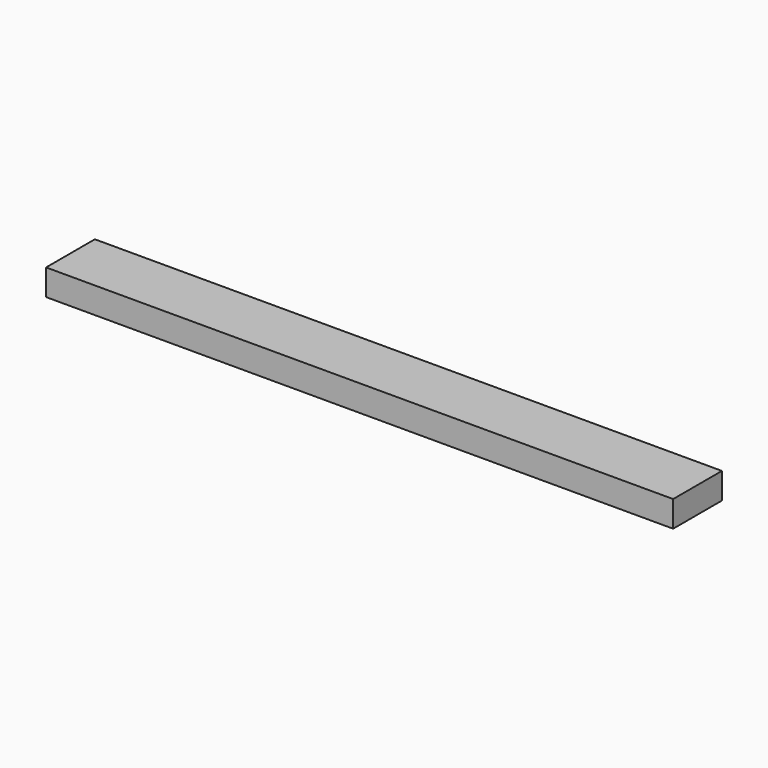
from build123d import *

# Parameters (mm, degrees)
F0_W     = 914.4
F0_H     = 88.9
F1_DEPTH = 38.1
F2_W     = 152.4
F2_H     = 25.4
F3_DEPTH = 6.35
F4_R     = 6.35
F5_DEPTH = 25.4


with BuildPart() as f1:
    # F0 (on Top) → F1 (new body)
    with BuildSketch(Plane.XY):
        with Locations((-483.326185, -13.443414)):
            Rectangle(F0_W, F0_H)
    extrude(amount=F1_DEPTH)

    # F2 (on face) → F3 (join)
    with BuildSketch(Plane(origin=(0, 31.006586, 0), x_dir=(-1, 0, 0), z_dir=(0, 1, 0))):
        with Locations((127.726185, 19.05)):
            Rectangle(F2_W, F2_H)
    extrude(amount=F3_DEPTH)

    # F4 (on face) → F5 (cut)
    with BuildSketch(Plane(origin=(0, 31.006586, 0), x_dir=(-1, 0, 0), z_dir=(0, 1, 0))):
        with Locations((800.826185, 19.05)):
            Circle(F4_R)
    extrude(amount=-F5_DEPTH, mode=Mode.SUBTRACT)


solid = f1.part
